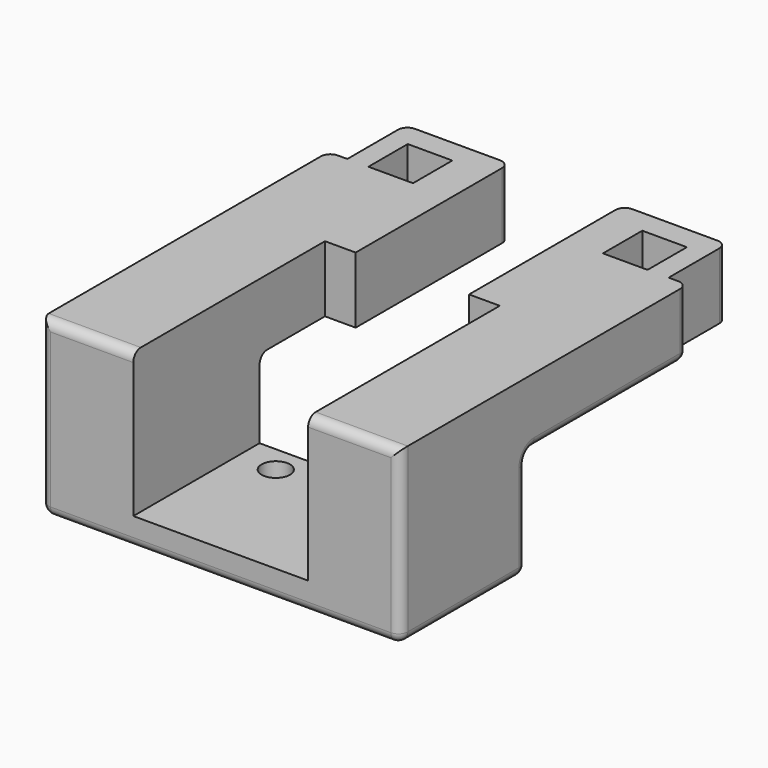
from build123d import *

# Parameters (mm, degrees)
SKETCH_W        = 4.72
SKETCH_H        = 5.2
PAD_DEPTH       = 18.3
SKETCH001_W     = 29
SKETCH001_H     = 11.3
POCKET_DEPTH    = 38.001
POCKET005_DEPTH = 15.3
SKETCH003_R     = 1.5
POCKET006_DEPTH = 5
FILLET_R        = 1
FILLET001_R     = 1
FILLET002_R     = 1
FILLET003_R     = 1
FILLET004_R     = 1


with BuildPart() as part:
    # Sketch → Pad (new body)
    with BuildSketch(Plane.XY):
        Polygon((-19, 19), (-19, -19), (19, -19), (19, 19), (17, 19), (17, 26.7), (6, 26.7), (6, 19), (-6, 19), (-6, 26.7), (-17, 26.7), (-17, 19), align=None)
        with Locations((-12.41, 21.6)):
            Rectangle(SKETCH_W, SKETCH_H, mode=Mode.SUBTRACT)
        with Locations((12.41, 21.6)):
            Rectangle(SKETCH_W, SKETCH_H, mode=Mode.SUBTRACT)
    extrude(amount=PAD_DEPTH)

    # Sketch001 (on Face3 of Pad) → Pocket (cut, through all)
    with BuildSketch(Plane.YZ.offset(19)):
        with Locations((12.2, 5.65)):
            Rectangle(SKETCH001_W, SKETCH001_H)
    extrude(amount=-POCKET_DEPTH, mode=Mode.SUBTRACT)

    # Sketch002 (on Face6 of Pocket) → Pocket005 (cut)
    with BuildSketch(Plane.XY.offset(18.3)):
        Polygon((-9.25, -19), (9.25, -19), (9.25, 6.35), (6, 6.35), (6, 19), (-6, 19), (-6, 6.35), (-9.25, 6.35), align=None)
    extrude(amount=-POCKET005_DEPTH, mode=Mode.SUBTRACT)

    # Sketch003 → Pocket006 (cut)
    with BuildSketch(Plane.XY.offset(4)):
        with Locations((-5.25, -5.15)):
            Circle(SKETCH003_R)
        with Locations((5.25, -5.15)):
            Circle(SKETCH003_R)
    extrude(amount=-POCKET006_DEPTH, mode=Mode.SUBTRACT)

    # Fillet
    fillet_edges = [part.edges().sort_by_distance(p)[0] for p in [
        (19, 19, 14.8),
        (17, 26.7, 14.8),
        (6, 26.7, 14.8),
        (-6, 26.7, 14.8),
        (-17, 26.7, 14.8),
        (-19, 19, 14.8),
    ]]
    fillet(fillet_edges, radius=FILLET_R)

    # Fillet001
    fillet001_edges = [part.edges().sort_by_distance(p)[0] for p in [
        (19, -10.65, 0),
        (-19, -10.65, 0),
    ]]
    fillet(fillet001_edges, radius=FILLET001_R)

    # Fillet002
    fillet002_edges = [part.edges().sort_by_distance(p)[0] for p in [
        (14.125, -2.3, 11.3),
        (-14.125, -2.3, 11.3),
    ]]
    fillet(fillet002_edges, radius=FILLET002_R)

    # Fillet003
    fillet003_edges = [part.edges().sort_by_distance(p)[0] for p in [
        (0, -2.3, 0),
    ]]
    fillet(fillet003_edges, radius=FILLET003_R)

    # Fillet004
    fillet004_edges = [part.edges().sort_by_distance(p)[0] for p in [
        (0, -19, 0),
        (19, -19, 9.65),
        (-19, -19, 9.65),
        (-14.125, -19, 18.3),
        (14.125, -19, 18.3),
    ]]
    fillet(fillet004_edges, radius=FILLET004_R)


solid = part.part
